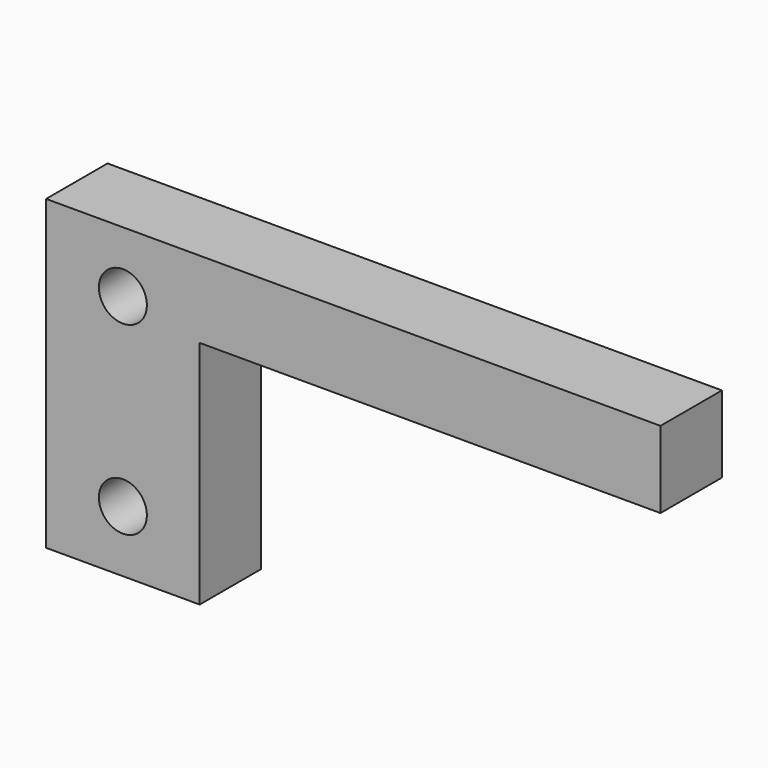
from build123d import *

# Parameters (mm, degrees)
F1_DEPTH = 12.7
F3_D     = 7.9375


with BuildPart() as f1:
    # F0 (on Front) → F1 (new body)
    with BuildSketch(Plane.XZ):
        Polygon((101.6, 0), (0, 0), (0, -50.8), (25.4, -50.8), (25.4, -12.7), (101.6, -12.7), align=None)
    extrude(amount=F1_DEPTH)

    # F3 (through all)
    with Locations(Plane.XZ.offset(12.7)):
        with Locations((12.7, -10.0584), (12.7, -40.64)):
            Hole(F3_D / 2)


solid = f1.part
